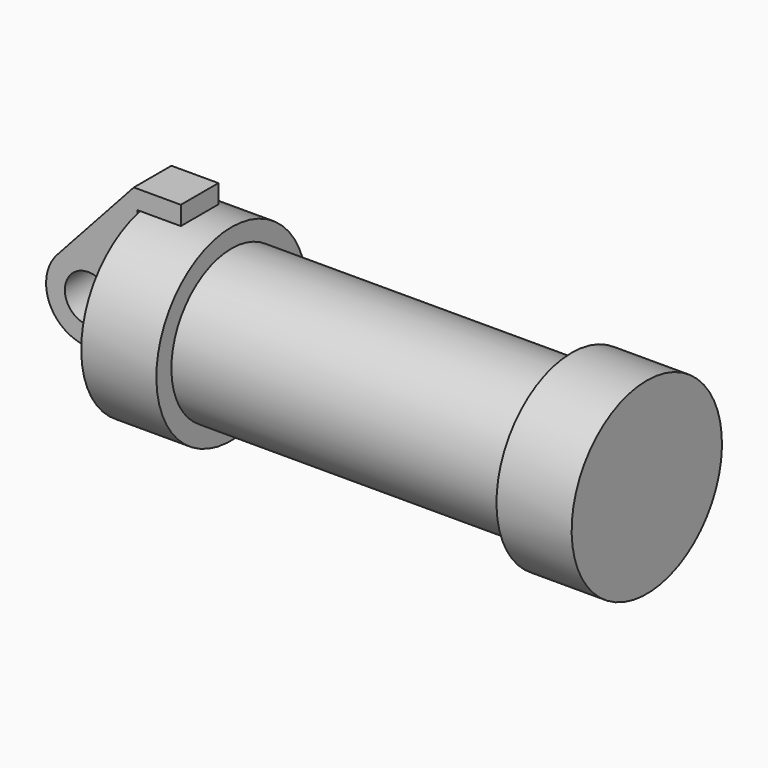
from build123d import *

# Parameters (mm, degrees)
F0_W     = 5.842
F0_H     = 12.7
F0_R     = 3.175
F2_DEPTH = 3.175


with BuildPart() as f1:
    # F0 (on Front) → F1 (revolve)
    with BuildSketch(Plane.XZ):
        Polygon((5.842, 12.7), (5.842, 0), (66.294, 0), (66.294, 12.7), (56.134, 12.7), (56.134, 10.16), (10.16, 10.16), (10.16, 12.7), align=None)
        with Locations((2.921, 6.35)):
            Rectangle(F0_W, F0_H)
    revolve(axis=Axis((33.147, 0, 0), (-1, 0, 0)))


with BuildPart() as f2:
    # F0 (on Front) → F2 (new body, symmetric)
    with BuildSketch(Plane.XZ):
        with BuildLine():
            Line((5.842, 0), (0, 0))
            Line((0, 0), (-0.9398, 0))
            ThreePointArc((-0.9398, 0), (-3.195791, -4.549339), (-8.182663, -5.506983))
            Line((-8.182663, -5.506983), (5.842, -9.398))
            Line((5.842, -9.398), (5.842, 0))
        make_face()
        with BuildLine():
            Line((-0.9398, 0), (0, 0))
            Line((0, 0), (0, 12.7))
            Line((0, 12.7), (5.842, 12.7))
            Line((5.842, 12.7), (5.842, 15.24))
            Line((5.842, 15.24), (-0.508, 15.24))
            Line((-0.508, 15.24), (-10.88063, 3.847543))
            ThreePointArc((-10.88063, 3.847543), (-4.591961, 5.329721), (-0.9398, 0))
        make_face()
        with BuildLine():
            ThreePointArc((-8.182663, -5.506983), (-3.195791, -4.549339), (-0.9398, 0))
            ThreePointArc((-0.9398, 0), (-4.591961, 5.329721), (-10.88063, 3.847543))
            ThreePointArc((-10.88063, 3.847543), (-12.145978, -1.583727), (-8.182663, -5.506983))
        make_face()
        with Locations((-6.6548, 0)):
            Circle(F0_R, mode=Mode.SUBTRACT)
    extrude(amount=F2_DEPTH, both=True)


solid = Compound([f1.part, f2.part])
